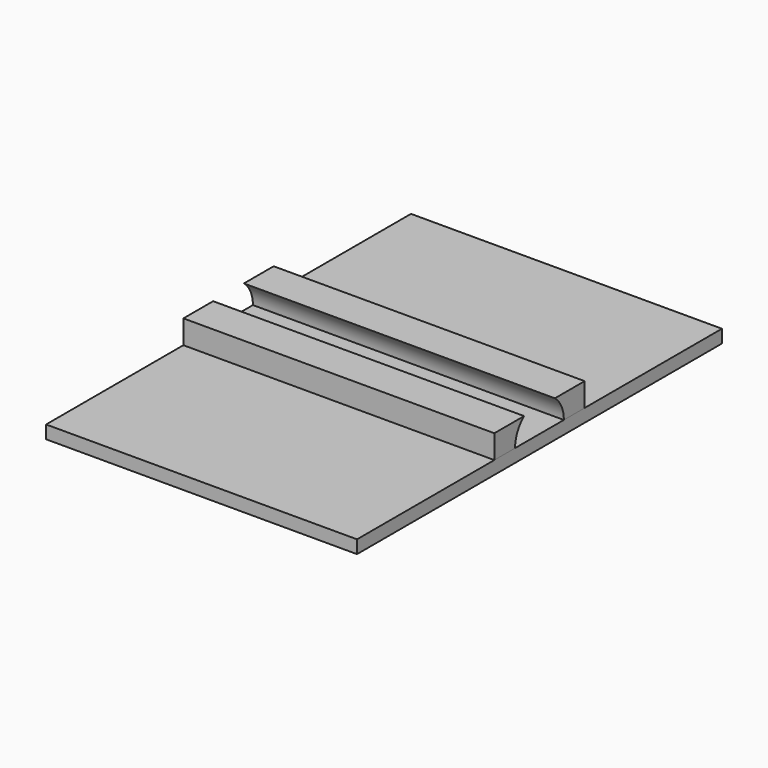
from build123d import *

# Parameters (mm, degrees)
F0_W     = 35.71
F0_H     = 52.38
F1_DEPTH = 1.5
F3_DEPTH = 35.71


with BuildPart() as f1:
    # F0 (on Top) → F1 (new body)
    with BuildSketch(Plane.XY):
        Rectangle(F0_W, F0_H)
    extrude(amount=F1_DEPTH)


with BuildPart() as f3:
    # F2 (on face) → F3 (new body, through all)
    with BuildSketch(Plane(origin=(-17.855, 0, 0), x_dir=(0, -1, 0), z_dir=(-1, 0, 0))):
        with BuildLine():
            ThreePointArc((-3.5, 1.5), (-3.161088, 3.002506), (-2.209986, 4.21403))
            Line((-2.209986, 4.21403), (-6.480924, 4.21403))
            Line((-6.480924, 4.21403), (-6.480924, 1.5))
            Line((-6.480924, 1.5), (-3.5, 1.5))
        make_face()
        with BuildLine():
            Line((6.480924, 4.21403), (2.209986, 4.21403))
            ThreePointArc((2.209986, 4.21403), (3.161088, 3.002506), (3.5, 1.5))
            Line((3.5, 1.5), (6.480924, 1.5))
            Line((6.480924, 1.5), (6.480924, 4.21403))
        make_face()
    extrude(amount=-F3_DEPTH)


solid = Compound([f1.part, f3.part])
